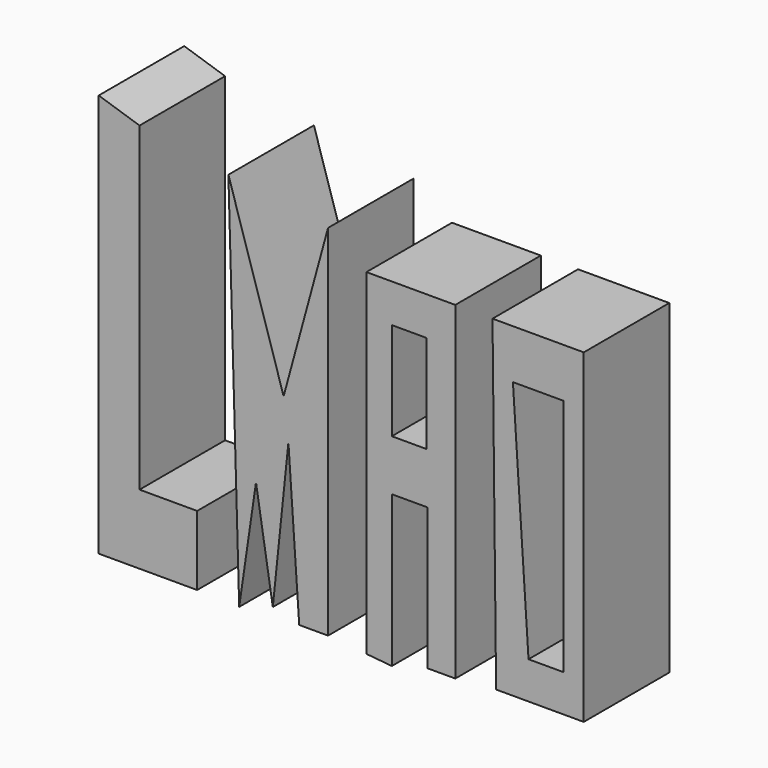
from build123d import *

# Parameters (mm, degrees)
F0_W     = 8.232862
F0_H     = 23.247113
F1_DEPTH = 25.4


with BuildPart() as f1:
    # F0 (on Front) → F1 (new body)
    with BuildSketch(Plane.XZ):
        Polygon((-59.939656, 45.495886), (-69.637835, 48.633531), (-69.637835, -47.207326), (-46.248104, -47.207326), (-46.248104, -30.663369), (-59.939656, -30.663369), align=None)
        Polygon((-38.831845, 42.072996), (-36.26468, -47.492567), (-32.271311, -20.109465), (-28.277945, -44.925403), (-24.569813, -9.270322), (-22.002649, -46.636846), (-15.156874, -46.636846), (-15.156874, 38.650107), (-25.710778, 0), align=None)
        Polygon((15.078636, 32.374814), (-6.029173, 32.374814), (-6.029173, -47.492567), (0, -48.063047), (0, -12.122728), (8.518103, -12.122728), (8.518103, -45.781121), (15.078636, -45.781121), align=None)
        with Locations((4.116431, 11.623556)):
            Rectangle(F0_W, F0_H, mode=Mode.SUBTRACT)
        Polygon((45.599382, 32.374814), (23.921093, 32.374814), (24.776815, -44.925403), (45.599382, -44.925403), align=None)
        Polygon((32.478318, -36.082942), (28.770182, 20.679947), (40.750295, 20.679947), (40.750295, -36.082942), align=None, mode=Mode.SUBTRACT)
    extrude(amount=F1_DEPTH)


solid = f1.part
